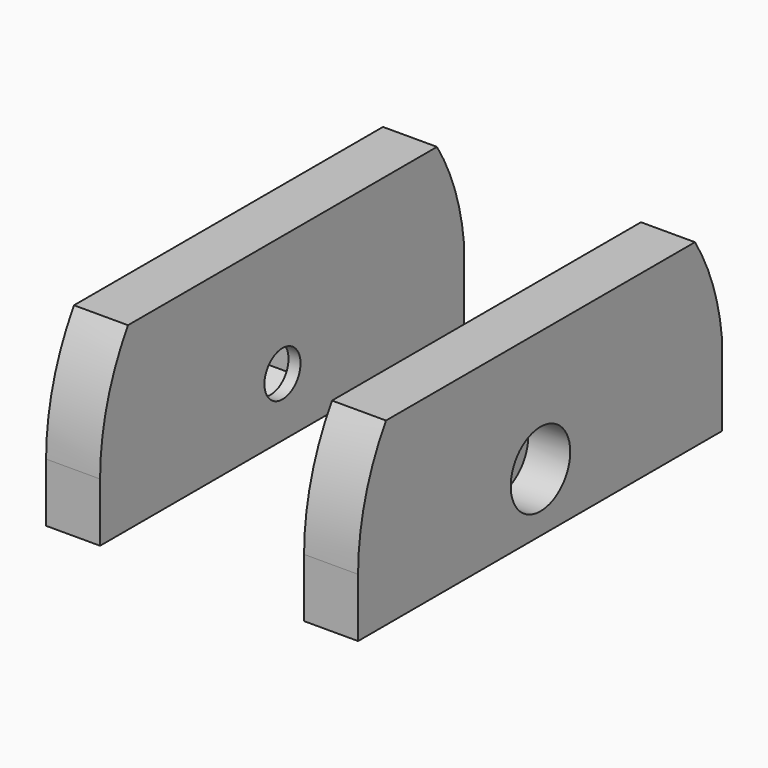
from build123d import *

# Parameters (mm, degrees)
BOX_W           = 17
BOX_H           = 50
BOX_DEPTH       = 50
SKETCH005_W     = 26
SKETCH005_H     = 38
PAD001_DEPTH    = 15
SKETCH006_R     = 1.88
POCKET005_DEPTH = 26.001
SKETCH007_R     = 3.1
POCKET006_DEPTH = 3.5
POCKET007_DEPTH = 3.5
POCKET008_DEPTH = 26.001


with BuildPart() as cube:
    # Box → Box (new body)
    with BuildSketch(Plane(origin=(-8.5, -31, -5), x_dir=(1, 0, 0), z_dir=(0, 0, 1))):
        with Locations((8.5, 25)):
            Rectangle(BOX_W, BOX_H)
    extrude(amount=BOX_DEPTH)


with BuildPart() as wheel_shaft_holder:
    # Sketch005 → Pad001 (new body)
    with BuildSketch(Plane.XY):
        with Locations((0, -6.6)):
            Rectangle(SKETCH005_W, SKETCH005_H)
    extrude(amount=PAD001_DEPTH)

    # Sketch006 → Pocket005 (cut, through all)
    with BuildSketch(Plane.YZ.offset(13)):
        with Locations((-6.5, 4.9)):
            Circle(SKETCH006_R)
    extrude(amount=-POCKET005_DEPTH, mode=Mode.SUBTRACT)

    # Sketch007 → Pocket006 (cut)
    with BuildSketch(Plane.YZ.offset(13)):
        with Locations((-6.5, 4.9)):
            Circle(SKETCH007_R)
    extrude(amount=-POCKET006_DEPTH, mode=Mode.SUBTRACT)

    # Sketch008 → Pocket007 (cut)
    with BuildSketch(Plane(origin=(-13, 0, 0), x_dir=(0, -1, 0), z_dir=(-1, 0, 0))):
        Polygon((6.5, 8.421837), (3.45, 6.660918), (3.45, 3.139082), (6.5, 1.378163), (9.55, 3.139082), (9.55, 6.660918), align=None)
    extrude(amount=-POCKET007_DEPTH, mode=Mode.SUBTRACT)

    # Sketch009 → Pocket008 (cut, through all)
    with BuildSketch(Plane.YZ.offset(13)):
        with BuildLine():
            ThreePointArc((-22.5, 15.146951), (-24.734583, 10.238539), (-25.5, 4.9))
            Line((-25.5, 4.9), (-25.5, 0))
            Line((-25.5, 0), (-29.5, 0))
            Line((-29.5, 0), (-29.5, 4.9))
            Line((-29.5, 4.9), (-29.5, 15.146951))
            Line((-29.5, 15.146951), (-22.5, 15.146951))
        make_face()
        with BuildLine():
            ThreePointArc((12.5, 4.9), (11.734583, 10.238539), (9.5, 15.146951))
            Line((9.5, 15.146951), (16.5, 15.146951))
            Line((16.5, 15.146951), (16.5, 0))
            Line((16.5, 0), (12.5, 0))
            Line((12.5, 4.9), (12.5, 0))
        make_face()
    extrude(amount=-POCKET008_DEPTH, mode=Mode.SUBTRACT)

    # Cut: cut Cube
    add(cube.part, mode=Mode.SUBTRACT)


with BuildPart() as wheel_shaft_holder_1:
    # Cut placement: moved
    add(wheel_shaft_holder.part.moved(Location((51, 0, 0))))


solid = wheel_shaft_holder_1.part
